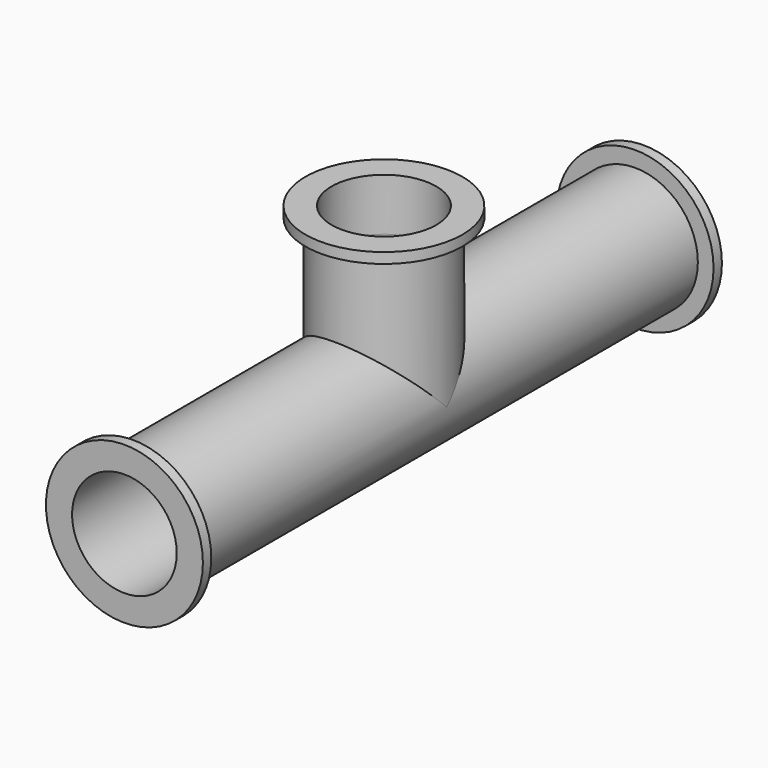
from build123d import *

# Parameters (mm, degrees)
F0_R          = 15.24
F0_R_2        = 12.7
F1_DEPTH      = 157.48
F0_R_3        = 19.05
F2_DEPTH      = 2.54
F3_R          = 19.05
F3_R_2        = 15.24
F4_DEPTH      = 2.54
F6_R          = 15.24
F6_R_2        = 12.7
F7_DEPTH      = 25.4
F7_DEPTH_BACK = 12.7
F8_R          = 19.05
F8_R_2        = 15.24
F9_DEPTH      = 2.54
F10_DEPTH     = 101.6
F8_R_3        = 12.7
F11_DEPTH     = 38.1


with BuildPart() as f1:
    # F0 (on Front) → F1 (new body)
    with BuildSketch(Plane.XZ):
        Circle(F0_R)
        Circle(F0_R_2, mode=Mode.SUBTRACT)
    extrude(amount=F1_DEPTH)

    # F0 (on Front) → F2 (join)
    with BuildSketch(Plane.XZ):
        Circle(F0_R_3)
        Circle(F0_R, mode=Mode.SUBTRACT)
    extrude(amount=F2_DEPTH)

    # F3 (on face) → F4 (join)
    with BuildSketch(Plane.XZ.offset(157.48)):
        Circle(F3_R)
        Circle(F3_R_2, mode=Mode.SUBTRACT)
    extrude(amount=-F4_DEPTH)

    # F6 (on offset) → F7 (join, two sides)
    with BuildSketch(Plane.XY.offset(25.4)) as f7_sk:
        with Locations((0, -78.74)):
            Circle(F6_R)
        with Locations((0, -78.74)):
            Circle(F6_R_2, mode=Mode.SUBTRACT)
    extrude(amount=-F7_DEPTH)
    extrude(f7_sk.sketch, amount=F7_DEPTH_BACK)

    # F8 (on face) → F9 (join)
    with BuildSketch(Plane.XY.offset(38.1)):
        with Locations((0, -78.74)):
            Circle(F8_R)
        with Locations((0, -78.74)):
            Circle(F8_R_2, mode=Mode.SUBTRACT)
    extrude(amount=-F9_DEPTH)

    # F0 (on Front) → F10 (cut)
    with BuildSketch(Plane.XZ):
        Circle(F0_R_2)
    extrude(amount=F10_DEPTH, mode=Mode.SUBTRACT)

    # F8 (on face) → F11 (cut)
    with BuildSketch(Plane.XY.offset(38.1)):
        with Locations((0, -78.74)):
            Circle(F8_R_3)
    extrude(amount=-F11_DEPTH, mode=Mode.SUBTRACT)


solid = f1.part
